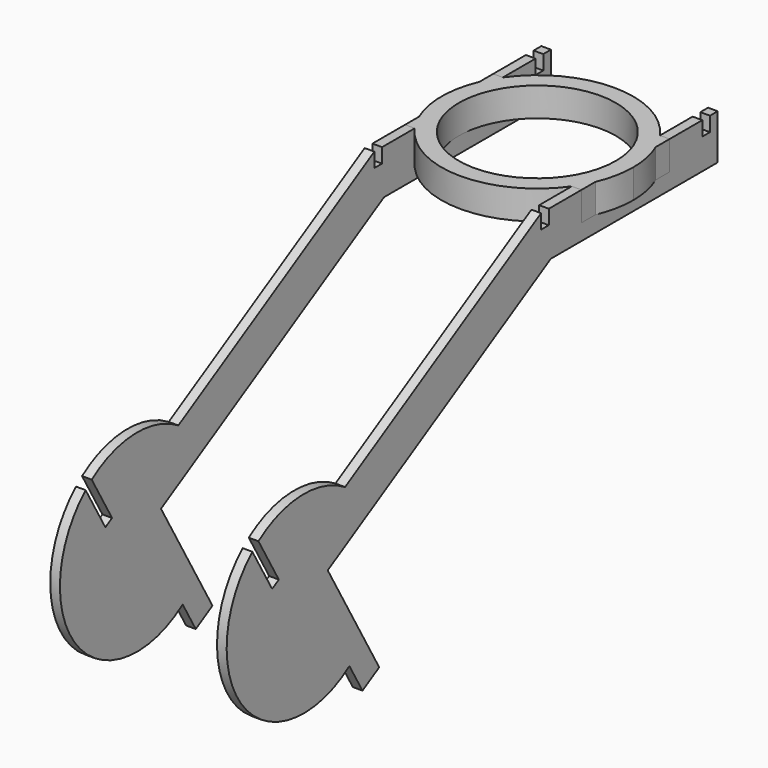
from build123d import *

# Parameters (mm, degrees)
F2_DEPTH = 9
F4_DEPTH = 3


with BuildPart() as f2:
    # F1 (on Top) → F2 (new body)
    with BuildSketch(Plane.XY):
        with BuildLine():
            Line((24.4, 0), (24.4, 17.1078929153))
            ThreePointArc((24.4, 17.1078929153), (0, 29.8), (-24.4, 17.1078929153))
            Line((-24.4, 17.1078929153), (-24.4, 0))
            ThreePointArc((-24.4, 0), (0, 24.4), (24.4, 0))
        make_face()
        with BuildLine():
            Line((27.4, 17.1078929153), (24.4, 17.1078929153))
            ThreePointArc((24.4, 17.1078929153), (26.0398994251, 14.4901220813), (27.4, 11.7166548127))
            Line((27.4, 11.7166548127), (27.4, 17.1078929153))
        make_face()
        with BuildLine():
            ThreePointArc((27.4, 11.7166548127), (26.0398994251, 14.4901220813), (24.4, 17.1078929153))
            Line((24.4, 17.1078929153), (24.4, 0))
            Line((24.4, 0), (24.4, -17.1078929153))
            ThreePointArc((24.4, -17.1078929153), (26.0398994251, -14.4901220813), (27.4, -11.7166548127))
            Line((27.4, -11.7166548127), (27.4, 11.7166548127))
        make_face()
        with BuildLine():
            Line((-24.4, 0), (-24.4, 17.1078929153))
            ThreePointArc((-24.4, 17.1078929153), (-26.0398994251, 14.4901220813), (-27.4, 11.7166548127))
            Line((-27.4, 11.7166548127), (-27.4, -11.7166548127))
            ThreePointArc((-27.4, -11.7166548127), (-26.0398994251, -14.4901220813), (-24.4, -17.1078929153))
            Line((-24.4, -17.1078929153), (-24.4, 0))
        make_face()
        with BuildLine():
            ThreePointArc((-27.4, 11.7166548127), (-26.0398994251, 14.4901220813), (-24.4, 17.1078929153))
            Line((-24.4, 17.1078929153), (-27.4, 17.1078929153))
            Line((-27.4, 17.1078929153), (-27.4, 11.7166548127))
        make_face()
        with BuildLine():
            ThreePointArc((29.8, 0), (29.1938349656, 5.9799665551), (27.4, 11.7166548127))
            Line((27.4, 11.7166548127), (27.4, -11.7166548127))
            ThreePointArc((27.4, -11.7166548127), (29.1938349656, -5.9799665551), (29.8, 0))
        make_face()
        with BuildLine():
            Line((24.4, -17.1078929153), (24.4, 0))
            ThreePointArc((24.4, 0), (0, -24.4), (-24.4, 0))
            Line((-24.4, 0), (-24.4, -17.1078929153))
            ThreePointArc((-24.4, -17.1078929153), (0, -29.8), (24.4, -17.1078929153))
        make_face()
        with BuildLine():
            Line((-27.4, -11.7166548127), (-27.4, 11.7166548127))
            ThreePointArc((-27.4, 11.7166548127), (-29.8, 0), (-27.4, -11.7166548127))
        make_face()
        with BuildLine():
            Line((27.4, -17.1078929153), (27.4, -11.7166548127))
            ThreePointArc((27.4, -11.7166548127), (26.0398994251, -14.4901220813), (24.4, -17.1078929153))
            Line((24.4, -17.1078929153), (27.4, -17.1078929153))
        make_face()
        with BuildLine():
            ThreePointArc((-24.4, -17.1078929153), (-26.0398994251, -14.4901220813), (-27.4, -11.7166548127))
            Line((-27.4, -11.7166548127), (-27.4, -17.1078929153))
            Line((-27.4, -17.1078929153), (-24.4, -17.1078929153))
        make_face()
    extrude(amount=F2_DEPTH)


with BuildPart() as f4:
    # F3 (on face) → F4 (new body)
    with BuildSketch(Plane(origin=(-27.4, 0, 0), x_dir=(0, -1, 0), z_dir=(-1, 0, 0))):
        with BuildLine():
            Line((-17.1078929153, 0), (-17.1078929153, 9))
            Line((-17.1078929153, 9), (-29.8, 9))
            Line((-29.8, 9), (-29.8, 4.5))
            Line((-29.8, 4.5), (-32.8, 4.5))
            Line((-32.8, 4.5), (-32.8, 9))
            Line((-32.8, 9), (-35.8, 9))
            Line((-35.8, 9), (-35.8, 0))
            Line((-35.8, 0), (-35.8, -5))
            Line((-35.8, -5), (29.048711306, -5))
            Line((29.048711306, -5), (98.9153107563, -45.3375))
            ThreePointArc((98.9153107563, -45.3375), (103.282832654, -39.5320236206), (108.9178222837, -34.9466451856))
            Line((108.9178222837, -34.9466451856), (32.8, 9))
            Line((32.8, 9), (32.8, 4.5))
            Line((32.8, 4.5), (29.8, 4.5))
            Line((29.8, 4.5), (29.8, 9))
            Line((29.8, 9), (17.1078929153, 9))
            Line((17.1078929153, 9), (17.1078929153, 0))
            Line((17.1078929153, 0), (0, 0))
            Line((0, 0), (-17.1078929153, 0))
        make_face()
        with BuildLine():
            ThreePointArc((142.5614617627, -36.0901489021), (125.9151455384, -30.354813481), (108.9178222837, -34.9466451856))
            ThreePointArc((108.9178222837, -34.9466451856), (103.282832654, -39.5320236206), (98.9153107563, -45.3375))
            Line((98.9153107563, -45.3375), (115.6512516844, -55))
            Line((115.6512516844, -55), (95.6512516844, -89.6410161514))
            Line((95.6512516844, -89.6410161514), (102.1464422128, -93.3910161514))
            Line((102.1464422128, -93.3910161514), (107.230683977, -84.5848510979))
            ThreePointArc((107.230683977, -84.5848510979), (148.2181164493, -79.2076426405), (144.9225856756, -38.0005623219))
            Line((144.9225856756, -38.0005623219), (137.2437797382, -51.300644347))
            Line((137.2437797382, -51.300644347), (134.6457035268, -49.800644347))
            Line((134.6457035268, -49.800644347), (142.5614617627, -36.0901489021))
        make_face()
    extrude(amount=-F4_DEPTH)


with BuildPart() as f5_1:
    # F5: instance of F4
    add(f4.part.mirror(Plane.YZ))


solid = Compound([f2.part, f4.part, f5_1.part])
